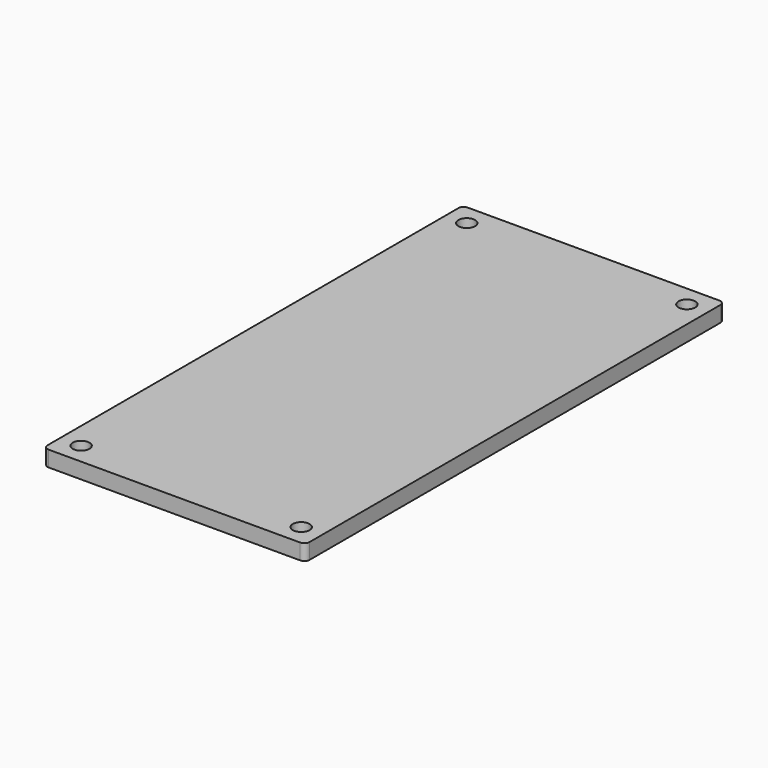
from build123d import *

# Parameters (mm, degrees)
SKETCH_W     = 50
SKETCH_H     = 100
PAD_DEPTH    = 3
SKETCH001_R  = 1.6
POCKET_DEPTH = 3
FILLET_R     = 1


with BuildPart() as part:
    # Sketch → Pad (new body)
    with BuildSketch(Plane.XY):
        Rectangle(SKETCH_W, SKETCH_H)
    extrude(amount=PAD_DEPTH)

    # Sketch001 (on Face6 of Pad) → Pocket (cut)
    with BuildSketch(Plane.XY.offset(3)):
        with Locations((-21, 46)):
            Circle(SKETCH001_R)
        with Locations((21, 46)):
            Circle(SKETCH001_R)
        with Locations((-21, -46)):
            Circle(SKETCH001_R)
        with Locations((21, -46)):
            Circle(SKETCH001_R)
    extrude(amount=-POCKET_DEPTH, mode=Mode.SUBTRACT)

    # Fillet
    fillet_edges = [part.edges().sort_by_distance(p)[0] for p in [
        (-25, 50, 1.5),
        (25, 50, 1.5),
        (25, -50, 1.5),
        (-25, -50, 1.5),
    ]]
    fillet(fillet_edges, radius=FILLET_R)


solid = part.part
